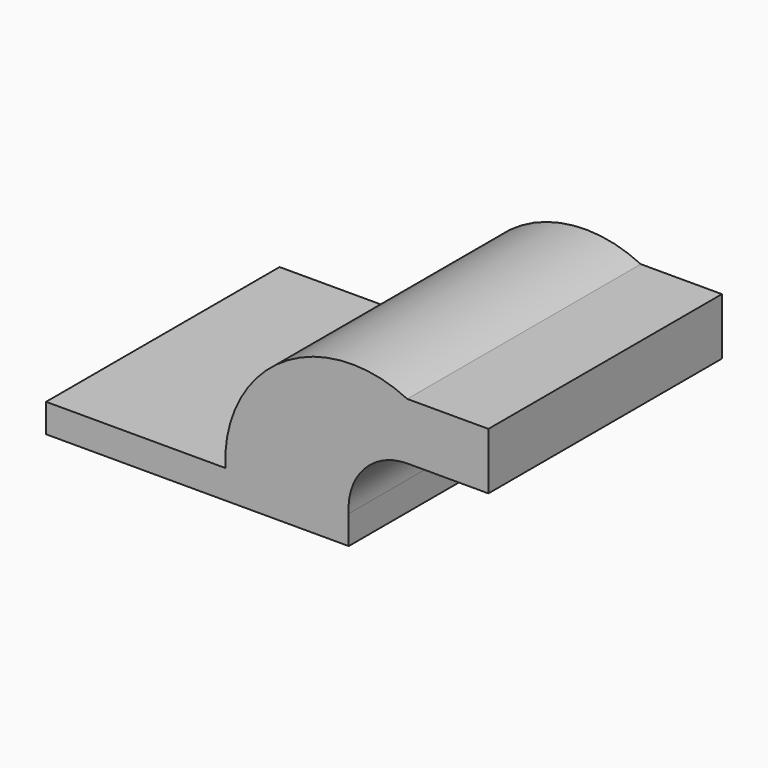
from build123d import *

# Parameters (mm, degrees)
F0_W     = 42.372167
F0_H     = 29.660501
F1_DEPTH = 152.4


with BuildPart() as f1:
    # F0 (on Front) → F1 (new body)
    with BuildSketch(Plane.XZ):
        with BuildLine():
            ThreePointArc((109.582473, 70.123763), (44.267725, 65.810023), (14.578056, 7.473514))
            Line((14.578056, 7.473514), (79.013996, 7.473514))
            ThreePointArc((79.013996, 7.473514), (87.094947, 30.642993), (109.582473, 40.463262))
            Line((109.582473, 40.463262), (109.582473, 70.123763))
        make_face()
        Polygon((14.578056, 7.473514), (-79.013996, 7.473514), (-79.013996, -7.473514), (79.013996, -7.473514), (79.013996, 7.473514), align=None)
        with Locations((130.768556, 55.293512)):
            Rectangle(F0_W, F0_H)
    extrude(amount=F1_DEPTH)


solid = f1.part
